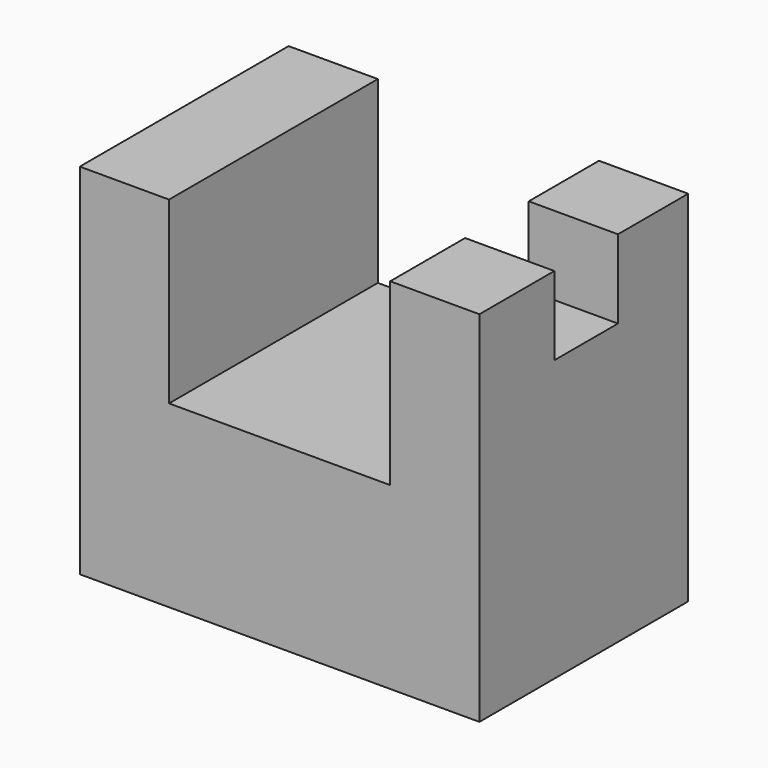
from build123d import *

# Parameters (mm, degrees)
F1_DEPTH = 25.4
F2_DEPTH = 19.304
F3_W     = 15.2846500278
F3_H     = 13.6232702062
F4_DEPTH = 13.462


with BuildPart() as f1:
    # F0 (on Front) → F1 (new body)
    with BuildSketch(Plane.XZ):
        Polygon((0, 61.4708550274), (0, 0), (68.4486366808, 0), (68.4486366808, 61.4708550274), (53.1639866531, 61.4708550274), (53.1639866531, 30.7354275137), (15.2846500278, 30.7354275137), (15.2846500278, 61.4708550274), align=None)
    extrude(amount=F1_DEPTH)

    # F2 (add): a face of the model
    f2_faces = [f1.faces().sort_by_distance(p)[0] for p in [
        (34.2243183404, -25.4, 24.8565047474),
    ]]
    extrude(f2_faces, amount=F2_DEPTH)

    # F3 (on face) → F4 (cut)
    with BuildSketch(Plane.XY.offset(61.4708550274)):
        with Locations((60.806311667, -21.8535889871)):
            Rectangle(F3_W, F3_H)
    extrude(amount=-F4_DEPTH, mode=Mode.SUBTRACT)


solid = f1.part
